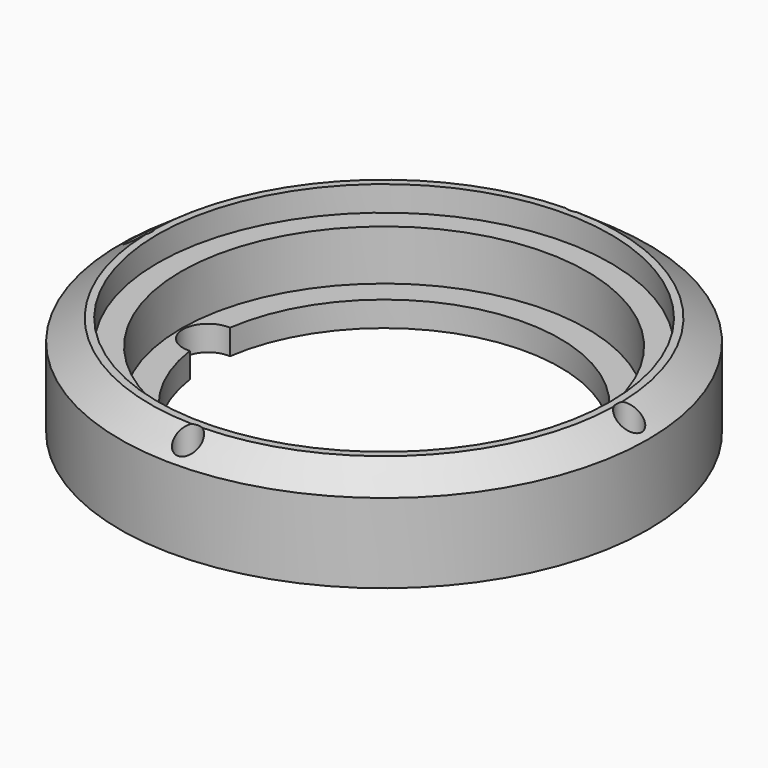
from build123d import *

# Parameters (mm, degrees)
F0_R           = 52.5
F0_R_2         = 35
F1_DEPTH       = 20
F2_DEPTH       = 20
F3_R           = 45.0292723638
F3_R_2         = 35
F4_DEPTH       = 5
F5_SIZE2       = 4.2012452293
F5_SIZE        = 6
F7_D           = 3
F7_START       = 3.3259859
F7_CBORE_D     = 5
F7_CBORE_DEPTH = 15
F8_R           = 40.3913127828
F9_DEPTH       = 10
F10_DEPTH      = 50


with BuildPart() as f1:
    # F0 (on Top) → F1 (new body)
    with BuildSketch(Plane.XY):
        Circle(F0_R)
        Circle(F0_R_2, mode=Mode.SUBTRACT)
        Circle(F0_R_2)
    extrude(amount=F1_DEPTH)

    # F0 (on Top) → F2 (cut)
    with BuildSketch(Plane.XY):
        Circle(F0_R_2)
    extrude(amount=F2_DEPTH, mode=Mode.SUBTRACT)

    # F3 (on face) → F4 (cut)
    with BuildSketch(Plane.XY.offset(20)):
        Circle(F3_R)
        Circle(F3_R_2, mode=Mode.SUBTRACT)
    extrude(amount=-F4_DEPTH, mode=Mode.SUBTRACT)

    # F5
    f5_edges = [f1.edges().sort_by_distance(p)[0] for p in [
        (-52.5, 0, 20),
    ]]
    f5_side = f1.faces().sort_by_distance((-51.015076, 0, 20))[0]
    chamfer(f5_edges, length=F5_SIZE, length2=F5_SIZE2, reference=f5_side)

    # F7 (through all)
    # its depths count from where the whole tool has entered the part; down to there all is cleared
    with Locations(Plane.XY.offset(20).offset(-F7_START)):
        with Locations((-48.75, 0), (0, -48.75), (48.75, 0), (0, 48.75)):
            CounterBoreHole(F7_D / 2, F7_CBORE_D / 2, F7_CBORE_DEPTH)

    # F8 (on face) → F9 (cut)
    with BuildSketch(Plane.XY.offset(15)):
        Circle(F8_R)
        with BuildLine():
            ThreePointArc((-34.6428571429, -4.9872285871), (-40, 0), (-34.6428571429, 4.9872285871))
            ThreePointArc((-34.6428571429, 4.9872285871), (2.5, 34.9106001094), (35, 0))
            ThreePointArc((35, 0), (2.5, -34.9106001094), (-34.6428571429, -4.9872285871))
        make_face(mode=Mode.SUBTRACT)
    extrude(amount=-F9_DEPTH, mode=Mode.SUBTRACT)

    # F10 (cut): a face of the model
    f10_faces = [f1.faces().sort_by_distance(p)[0] for p in [
        (-37.0564415312, 0, 15),
    ]]
    extrude(f10_faces, amount=-F10_DEPTH, mode=Mode.SUBTRACT)


solid = f1.part
